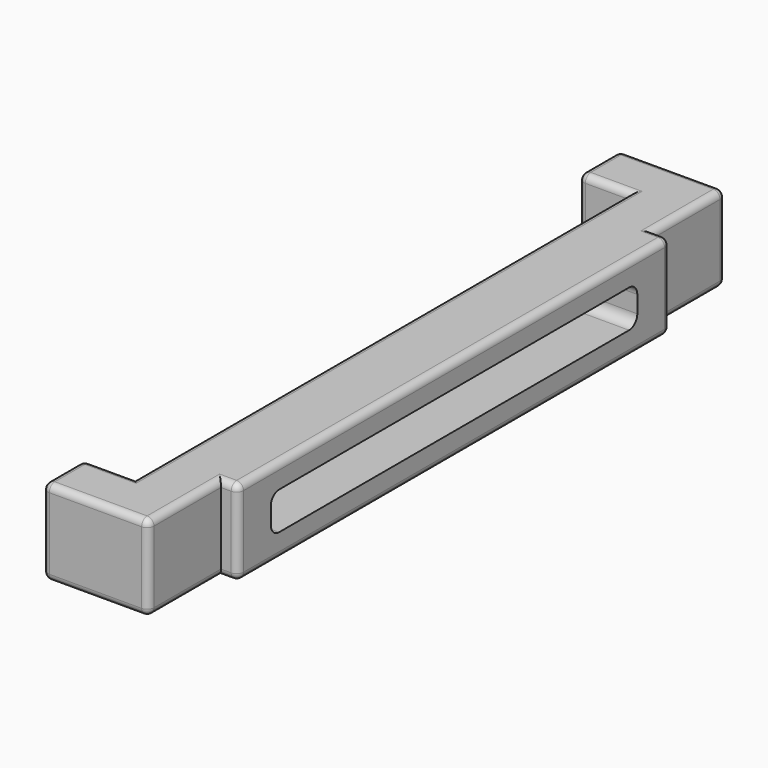
from build123d import *

# Parameters (mm, degrees)
F1_DEPTH = 25
F2_R     = 2
F3_W     = 134
F3_H     = 11
F4_DEPTH = 25
F5_R     = 3
F6_R     = 2


with BuildPart() as f1:
    # F0 (on Top) → F1 (new body)
    with BuildSketch(Plane.XY):
        Polygon((-15, 90.5), (0, 90.5), (0, -90.5), (-15, -90.5), (-15, -105.5), (16, -105.5), (16, -79), (21, -79), (21, 79), (16, 79), (16, 105.5), (-15, 105.5), align=None)
    extrude(amount=F1_DEPTH)

    # F2
    f2_edges = [f1.edges().sort_by_distance(p)[0] for p in [
        (-15, -105.5, 12.5),
        (-15, 105.5, 12.5),
        (-15, 90.5, 12.5),
        (-15, -90.5, 12.5),
        (16, -105.5, 12.5),
        (21, -79, 12.5),
        (21, 79, 12.5),
        (16, 105.5, 12.5),
    ]]
    fillet(f2_edges, radius=F2_R)

    # F3 (on face) → F4 (cut)
    with BuildSketch(Plane.YZ.offset(21)):
        with Locations((0, 12.5)):
            Rectangle(F3_W, F3_H)
    extrude(amount=-F4_DEPTH, mode=Mode.SUBTRACT)

    # F5
    f5_edges = [f1.edges().sort_by_distance(p)[0] for p in [
        (10.5, -67, 7),
        (10.5, 67, 18),
        (10.5, 67, 7),
        (10.5, -67, 18),
    ]]
    fillet(f5_edges, radius=F5_R)

    # F6
    f6_edges = [f1.edges().sort_by_distance(p)[0] for p in [
        (-6.5, 90.5, 25),
        (-14.414214, 91.085786, 25),
        (0, 0, 25),
        (-15, 98, 25),
        (-6.5, -90.5, 25),
        (-14.414214, 104.914214, 25),
        (-14.414214, -91.085786, 25),
        (0.5, 105.5, 25),
        (-15, -98, 25),
        (15.414214, 104.914214, 25),
        (-14.414214, -104.914214, 25),
        (16, 91.25, 25),
        (0.5, -105.5, 25),
        (17.5, 79, 25),
        (15.414214, -104.914214, 25),
        (20.414214, 78.414214, 25),
        (16, -91.25, 25),
        (21, 0, 25),
        (17.5, -79, 25),
        (20.414214, -78.414214, 25),
        (-6.5, 90.5, 0),
        (-14.414214, 91.085786, 0),
        (0, 0, 0),
        (-15, 98, 0),
        (-6.5, -90.5, 0),
        (-14.414214, 104.914214, 0),
        (-14.414214, -91.085786, 0),
        (0.5, 105.5, 0),
        (-15, -98, 0),
        (15.414214, 104.914214, 0),
        (-14.414214, -104.914214, 0),
        (16, 91.25, 0),
        (0.5, -105.5, 0),
        (17.5, 79, 0),
        (15.414214, -104.914214, 0),
        (20.414214, 78.414214, 0),
        (16, -91.25, 0),
        (21, 0, 0),
        (17.5, -79, 0),
        (20.414214, -78.414214, 0),
    ]]
    fillet(f6_edges, radius=F6_R)


solid = f1.part
